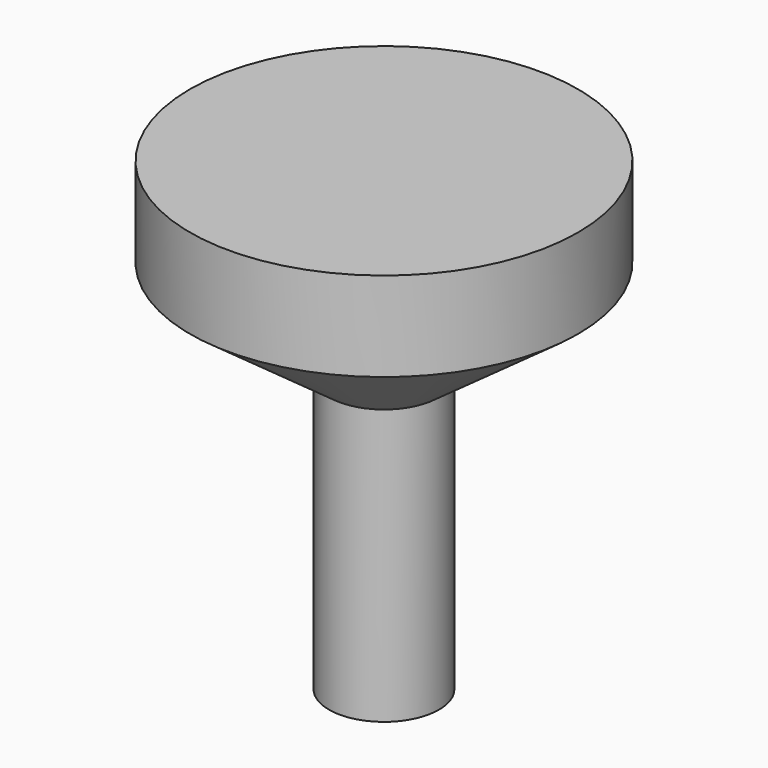
from build123d import *

# Parameters (mm, degrees)
F0_W = 8
F0_H = 40


with BuildPart() as f1:
    # F0 (on Front) → F1 (revolve)
    with BuildSketch(Plane.XZ):
        Polygon((-8, 20), (0, 20), (0, 47.691655), (-28.227587, 47.691655), (-28.227587, 34.691655), align=None)
        with Locations((-4, 0)):
            Rectangle(F0_W, F0_H)
    revolve(axis=Axis((0, 0, 13.845827), (0, 0, 1)))


solid = f1.part
